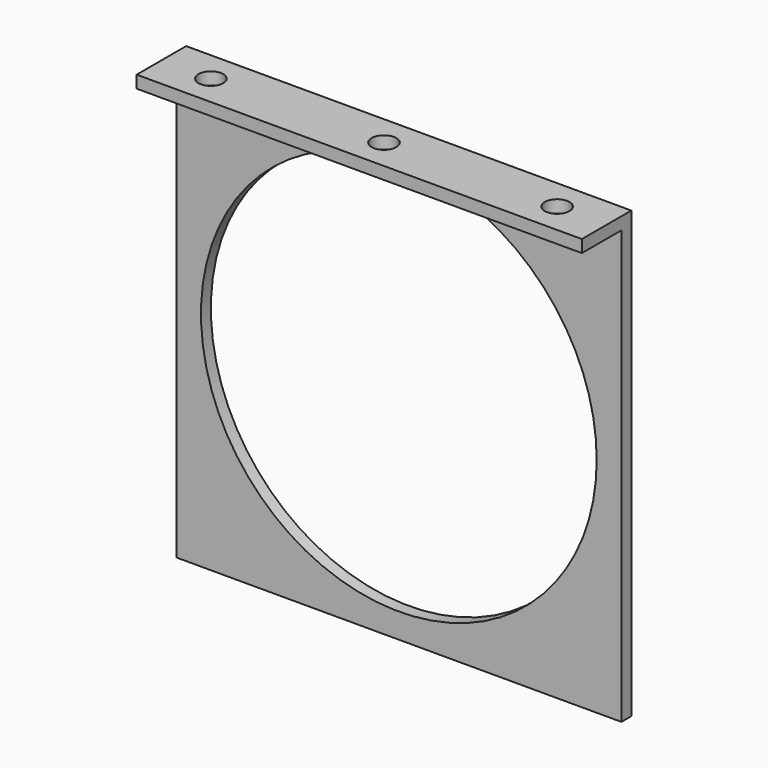
from build123d import *

# Parameters (mm, degrees)
F0_W     = 114.3
F0_H     = 114.3
F0_R     = 50.8
F1_DEPTH = 3.175
F2_W     = 114.3
F2_H     = 3.175
F3_DEPTH = 12.7
F5_DEPTH = 25.4


with BuildPart() as f1:
    # F0 (on Front) → F1 (new body)
    with BuildSketch(Plane.XZ):
        Rectangle(F0_W, F0_H)
        Circle(F0_R, mode=Mode.SUBTRACT)
    extrude(amount=F1_DEPTH)

    # F2 (on face) → F3 (join)
    with BuildSketch(Plane.XZ.offset(3.175)):
        with Locations((0, 55.5625)):
            Rectangle(F2_W, F2_H)
    extrude(amount=F3_DEPTH)

    # F4 (on face) → F5 (cut)
    with BuildSketch(Plane.XY.offset(57.15)):
        with BuildLine():
            ThreePointArc((-41.275, -7.9375), (-44.45, -4.7625), (-47.625, -7.9375))
            Line((-47.625, -7.9375), (-41.275, -7.9375))
        make_face()
        with BuildLine():
            ThreePointArc((47.625, -7.9375), (44.45, -4.7625), (41.275, -7.9375))
            Line((41.275, -7.9375), (47.625, -7.9375))
        make_face()
        with BuildLine():
            Line((47.625, -7.9375), (41.275, -7.9375))
            ThreePointArc((41.275, -7.9375), (44.45, -11.1125), (47.625, -7.9375))
        make_face()
        with BuildLine():
            ThreePointArc((3.175, -7.9375), (0, -4.7625), (-3.175, -7.9375))
            Line((-3.175, -7.9375), (3.175, -7.9375))
        make_face()
        with BuildLine():
            Line((3.175, -7.9375), (-3.175, -7.9375))
            ThreePointArc((-3.175, -7.9375), (0, -11.1125), (3.175, -7.9375))
        make_face()
        with BuildLine():
            Line((-41.275, -7.9375), (-47.625, -7.9375))
            ThreePointArc((-47.625, -7.9375), (-44.45, -11.1125), (-41.275, -7.9375))
        make_face()
    extrude(amount=-F5_DEPTH, mode=Mode.SUBTRACT)


solid = f1.part
